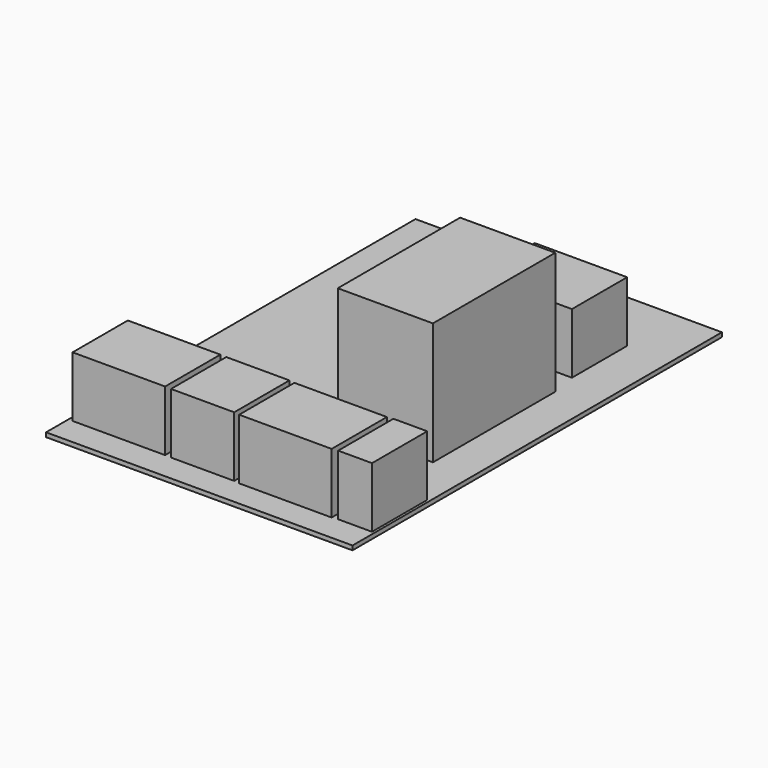
from build123d import *

# Parameters (mm, degrees)
F0_W      = 450.85
F0_H      = 679.45
F1_DEPTH  = 6.35
F2_W      = 136.144
F2_H      = 101.6
F3_DEPTH  = 88.9
F4_W      = 136.144
F4_H      = 101.6
F5_DEPTH  = 88.9
F6_W      = 49.784
F6_H      = 101.6
F7_DEPTH  = 88.9
F8_W      = 136.144
F8_H      = 101.6
F9_DEPTH  = 88.9
F13_W     = 92.964
F13_H     = 101.6
F14_DEPTH = 88.9
F16_W     = 140
F16_H     = 225
F17_DEPTH = 180
F18_W     = 40.64
F18_H     = 77.216
F19_DEPTH = 33.274


with BuildPart() as f1:
    # F0 (on Top) → F1 (new body)
    with BuildSketch(Plane.XY):
        Rectangle(F0_W, F0_H)
    extrude(amount=-F1_DEPTH)


with BuildPart() as f3:
    # F2 (on face) → F3 (new body)
    with BuildSketch(Plane.XY):
        with Locations((102.825514, -173.369791)):
            Rectangle(F2_W, F2_H)
    extrude(amount=F3_DEPTH)


with BuildPart() as f5:
    # F4 (on face) → F5 (new body)
    with BuildSketch(Plane.XY):
        with Locations((68.072, 158.92881)):
            Rectangle(F4_W, F4_H)
    extrude(amount=F5_DEPTH)


with BuildPart() as f7:
    # F6 (on face) → F7 (new body)
    with BuildSketch(Plane.XY):
        with Locations((-16.620955, -177.183089)):
            Rectangle(F6_W, F6_H)
    extrude(amount=F7_DEPTH)


with BuildPart() as f9:
    # F8 (on face) → F9 (new body)
    with BuildSketch(Plane.XY):
        with Locations((-153.733843, -176.779236)):
            Rectangle(F8_W, F8_H)
    extrude(amount=F9_DEPTH)


with BuildPart() as f3_1:
    # F10: moved
    add(f3.part.moved(Location((-7.62, -76.2, 0))))


with BuildPart() as f7_1:
    # F11: moved
    add(f7.part.moved(Location((213.36, -71.12, 0))))


with BuildPart() as f9_1:
    # F12: moved
    add(f9.part.moved(Location((2.54, -71.12, 0))))


with BuildPart() as f14:
    # F13 (on face) → F14 (new body)
    with BuildSketch(Plane.XY):
        with Locations((-63.102954, -248.37717)):
            Rectangle(F13_W, F13_H)
    extrude(amount=F14_DEPTH)


with BuildPart() as f14_1:
    # F15: moved
    add(f14.part.moved(Location((35.56, 0, 0))))


with BuildPart() as f17:
    # F16 (on face) → F17 (new body)
    with BuildSketch(Plane.XY):
        with Locations((100.897514, -51.15248)):
            Rectangle(F16_W, F16_H)
    extrude(amount=F17_DEPTH)


with BuildPart() as f19:
    # F18 (on face) → F19 (new body)
    with BuildSketch(Plane.XY):
        with Locations((-20.32, -131.863326)):
            Rectangle(F18_W, F18_H)
    extrude(amount=F19_DEPTH)


with BuildPart() as f17_1:
    # F20: moved
    add(f17.part.moved(Location((-2.54, 43.18, 0))))


with BuildPart() as f5_1:
    # F21: moved
    add(f5.part.moved(Location((25.4, 35.56, 0))))


with BuildPart() as f19_1:
    # F22: moved
    add(f19.part.moved(Location((17.78, 132.08, 0))))


solid = Compound([f1.part, f3_1.part, f7_1.part, f9_1.part, f14_1.part, f17_1.part, f5_1.part, f19_1.part])
